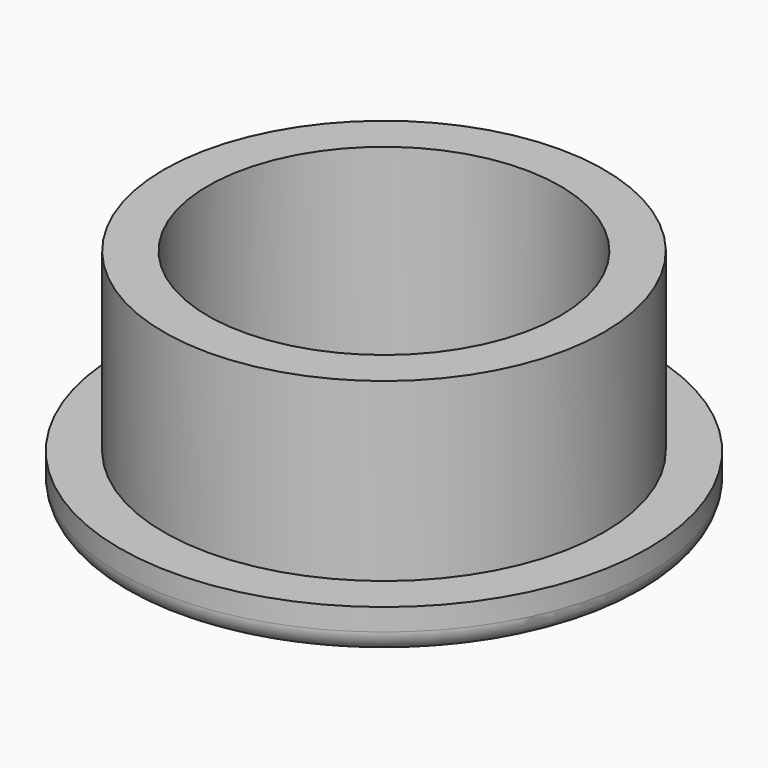
from build123d import *

# Parameters (mm, degrees)
CYLINDER_R        = 8
CYLINDER_DEPTH    = 10
CYLINDER001_R     = 12
CYLINDER001_DEPTH = 2
CYLINDER002_R     = 10
CYLINDER002_DEPTH = 8
FILLET_R          = 1


with BuildPart() as cylinder:
    # Cylinder → Cylinder (new body)
    with BuildSketch(Plane.XY):
        Circle(CYLINDER_R)
    extrude(amount=CYLINDER_DEPTH)


with BuildPart() as cylinder001:
    # Cylinder001 → Cylinder001 (new body)
    with BuildSketch(Plane.XY):
        Circle(CYLINDER001_R)
    extrude(amount=CYLINDER001_DEPTH)


with BuildPart() as fillet_body:
    # Cylinder002 → Cylinder002 (new body)
    with BuildSketch(Plane.XY.offset(2)):
        Circle(CYLINDER002_R)
    extrude(amount=CYLINDER002_DEPTH)

    # Fusion: union Cylinder001
    add(cylinder001.part)

    # Cut: cut Cylinder
    add(cylinder.part, mode=Mode.SUBTRACT)

    # Fillet
    fillet_edges = [fillet_body.edges().sort_by_distance(p)[0] for p in [
        (-12, 0, 0),
        (-8, 0, 0),
    ]]
    fillet(fillet_edges, radius=FILLET_R)


solid = fillet_body.part
